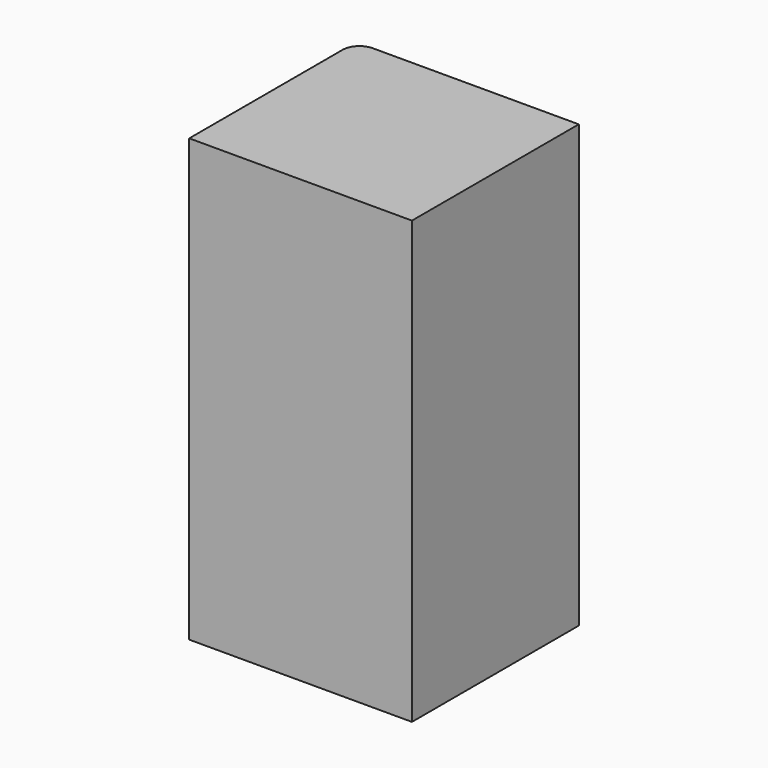
from build123d import *

# Parameters (mm, degrees)
F1_DEPTH = 50.8
F2_DEPTH = 116.332


with BuildPart() as f1:
    # F0 (on Top) → F1 (new body)
    with BuildSketch(Plane.XY):
        with BuildLine():
            Line((84.332854, 0), (6.35, 0))
            ThreePointArc((6.35, 0), (1.859872, -1.859872), (0, -6.35))
            Line((0, -6.35), (0, -78.965932))
            Line((0, -78.965932), (84.332854, -78.965932))
            Line((84.332854, -78.965932), (84.332854, 0))
        make_face()
    extrude(amount=F1_DEPTH)

    # F1_face (on face) → F2 (join)
    with BuildSketch(Plane(origin=(42.219444, -39.532492, 50.8), x_dir=(1, 0, 0), z_dir=(0, 0, 1))):
        with BuildLine():
            Line((42.11341, 39.532492), (-35.869444, 39.532492))
            ThreePointArc((-35.869444, 39.532492), (-40.359572, 37.67262), (-42.219444, 33.182492))
            Line((-42.219444, 33.182492), (-42.219444, -39.43344))
            Line((-42.219444, -39.43344), (42.11341, -39.43344))
            Line((42.11341, -39.43344), (42.11341, 39.532492))
        make_face()
    extrude(amount=F2_DEPTH)


solid = f1.part
